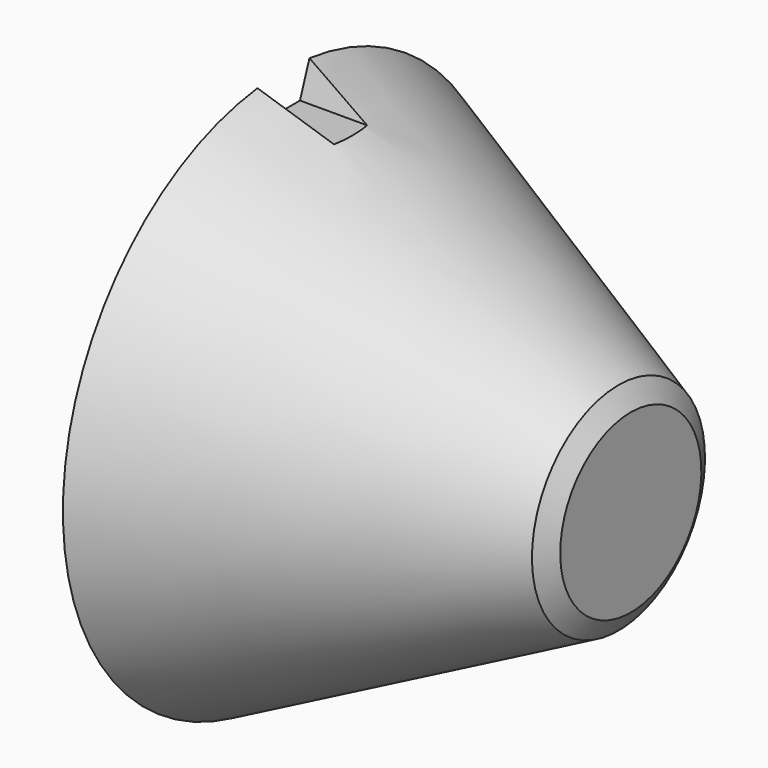
from build123d import *

# Parameters (mm, degrees)
F2_SIZE  = 10
F4_DEPTH = 1000


with BuildPart() as f1:
    # F0 (on Front) → F1 (revolve)
    with BuildSketch(Plane.XZ):
        Polygon((0, 200), (0, 0), (252.01218, 0), (252.01218, 73.99391), align=None)
    revolve(axis=Axis((191.066653, 0, 0), (1, 0, 0)))

    # F2
    f2_edges = [f1.edges().sort_by_distance(p)[0] for p in [
        (252.01218, 0, -73.99391),
    ]]
    chamfer(f2_edges, length=F2_SIZE)

    # F3 (on face) → F4 (cut)
    with BuildSketch(Plane(origin=(0, 0, 0), x_dir=(0, -1, 0), z_dir=(-1, 0, 0))):
        with BuildLine():
            Line((-15, 175.000831), (0, 175.000831))
            Line((0, 175.000831), (15, 175.000831))
            Line((15, 175.000831), (23.590783, 198.603814))
            ThreePointArc((23.590783, 198.603814), (0, 200), (-23.590783, 198.603814))
            Line((-23.590783, 198.603814), (-15, 175.000831))
        make_face()
    extrude(amount=-F4_DEPTH, mode=Mode.SUBTRACT)


solid = f1.part
